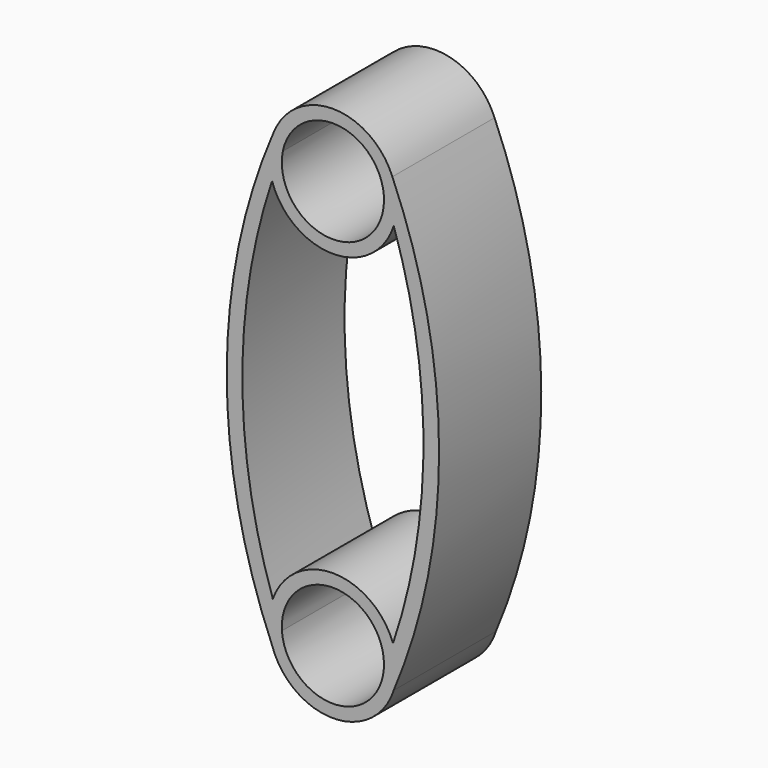
from build123d import *

# Parameters (mm, degrees)
F1_DEPTH = 25


with BuildPart() as f1:
    # F0 (on Front) → F1 (new body)
    with BuildSketch(Plane.XZ):
        with BuildLine():
            ThreePointArc((-9.7989449483, 41.9951636275), (0, 50), (9.7989449483, 41.9951636275))
            ThreePointArc((9.7989449483, 41.9951636275), (10.8936502514, 39.1134530116), (11.9093426036, 36.2029539443))
            ThreePointArc((11.9093426036, 36.2029539443), (12.3514530025, 38.0786440394), (12.5, 40))
            ThreePointArc((12.5, 40), (12.2820417112, 42.324102279), (11.6357677755, 44.5671553812))
            ThreePointArc((11.6357677755, 44.5671553812), (0, 52.5), (-11.6357677755, 44.5671553812))
            ThreePointArc((-11.6357677755, 44.5671553812), (-12.493319099, 40.4086292818), (-11.9093426036, 36.2029539443))
            ThreePointArc((-11.9093426036, 36.2029539443), (-10.8936502514, 39.1134530116), (-9.7989449483, 41.9951636275))
        make_face()
        with BuildLine():
            ThreePointArc((9.7989449483, 41.9951636275), (9.9496092758, 41.0026341599), (10, 40))
            ThreePointArc((10, 40), (-1.0026341599, 30.0503907242), (-9.7989449483, 41.9951636275))
            ThreePointArc((-9.7989449483, 41.9951636275), (-10.8936502514, 39.1134530116), (-11.9093426036, 36.2029539443))
            ThreePointArc((-11.9093426036, 36.2029539443), (0, 27.5), (11.9093426036, 36.2029539443))
            ThreePointArc((11.9093426036, 36.2029539443), (10.8936502514, 39.1134530116), (9.7989449483, 41.9951636275))
        make_face()
        with BuildLine():
            ThreePointArc((-11.7644333165, -35.7752977924), (-17.7211555757, 0.20198165), (-11.9093426036, 36.2029539443))
            ThreePointArc((-11.9093426036, 36.2029539443), (-12.493319099, 40.4086292818), (-11.6357677755, 44.5671553812))
            ThreePointArc((-11.6357677755, 44.5671553812), (-20.7751383707, 0.3927164788), (-11.89717505, -43.835000108))
            ThreePointArc((-11.89717505, -43.835000108), (-12.4983050041, -39.7941553412), (-11.7644333165, -35.7752977924))
        make_face()
        with BuildLine():
            ThreePointArc((12.5, -40), (12.3147354104, -37.8558703929), (11.7644333165, -35.7752977924))
            ThreePointArc((11.7644333165, -35.7752977924), (10.8988684939, -38.2401740248), (9.9765535789, -40.6843819744))
            ThreePointArc((9.9765535789, -40.6843819744), (0, -50), (-9.9765535789, -40.6843819744))
            ThreePointArc((-9.9765535789, -40.6843819744), (-10.8988684939, -38.2401740248), (-11.7644333165, -35.7752977924))
            ThreePointArc((-11.7644333165, -35.7752977924), (-12.4983050041, -39.7941553412), (-11.89717505, -43.835000108))
            ThreePointArc((-11.89717505, -43.835000108), (0, -52.5), (11.89717505, -43.835000108))
            ThreePointArc((11.89717505, -43.835000108), (12.3483741465, -41.9410450632), (12.5, -40))
        make_face()
        with BuildLine():
            ThreePointArc((9.9765535789, -40.6843819744), (10.8988684939, -38.2401740248), (11.7644333165, -35.7752977924))
            ThreePointArc((11.7644333165, -35.7752977924), (0, -27.5), (-11.7644333165, -35.7752977924))
            ThreePointArc((-11.7644333165, -35.7752977924), (-10.8988684939, -38.2401740248), (-9.9765535789, -40.6843819744))
            ThreePointArc((-9.9765535789, -40.6843819744), (-0.3423917426, -30.0058633242), (10, -40))
            ThreePointArc((10, -40), (9.9941366758, -40.3423917426), (9.9765535789, -40.6843819744))
        make_face()
        with BuildLine():
            ThreePointArc((-9.7989449483, 41.9951636275), (0, 50), (9.7989449483, 41.9951636275))
            ThreePointArc((9.7989449483, 41.9951636275), (10.8936502514, 39.1134530116), (11.9093426036, 36.2029539443))
            ThreePointArc((11.9093426036, 36.2029539443), (12.3514530025, 38.0786440394), (12.5, 40))
            ThreePointArc((12.5, 40), (12.2820417112, 42.324102279), (11.6357677755, 44.5671553812))
            ThreePointArc((11.6357677755, 44.5671553812), (0, 52.5), (-11.6357677755, 44.5671553812))
            ThreePointArc((-11.6357677755, 44.5671553812), (-12.493319099, 40.4086292818), (-11.9093426036, 36.2029539443))
            ThreePointArc((-11.9093426036, 36.2029539443), (-10.8936502514, 39.1134530116), (-9.7989449483, 41.9951636275))
        make_face()
        with BuildLine():
            ThreePointArc((12.5, 40), (12.3514530025, 38.0786440394), (11.9093426036, 36.2029539443))
            ThreePointArc((11.9093426036, 36.2029539443), (17.7211555757, 0.20198165), (11.7644333165, -35.7752977924))
            ThreePointArc((11.7644333165, -35.7752977924), (12.3147354104, -37.8558703929), (12.5, -40))
            ThreePointArc((12.5, -40), (12.3483741465, -41.9410450632), (11.89717505, -43.835000108))
            ThreePointArc((11.89717505, -43.835000108), (20.7751383707, 0.3927164788), (11.6357677755, 44.5671553812))
            ThreePointArc((11.6357677755, 44.5671553812), (12.2820417112, 42.324102279), (12.5, 40))
        make_face()
        with BuildLine():
            ThreePointArc((12.5, -40), (12.3147354104, -37.8558703929), (11.7644333165, -35.7752977924))
            ThreePointArc((11.7644333165, -35.7752977924), (10.8988684939, -38.2401740248), (9.9765535789, -40.6843819744))
            ThreePointArc((9.9765535789, -40.6843819744), (0, -50), (-9.9765535789, -40.6843819744))
            ThreePointArc((-9.9765535789, -40.6843819744), (-10.8988684939, -38.2401740248), (-11.7644333165, -35.7752977924))
            ThreePointArc((-11.7644333165, -35.7752977924), (-12.4983050041, -39.7941553412), (-11.89717505, -43.835000108))
            ThreePointArc((-11.89717505, -43.835000108), (0, -52.5), (11.89717505, -43.835000108))
            ThreePointArc((11.89717505, -43.835000108), (12.3483741465, -41.9410450632), (12.5, -40))
        make_face()
    extrude(amount=F1_DEPTH)


solid = f1.part
